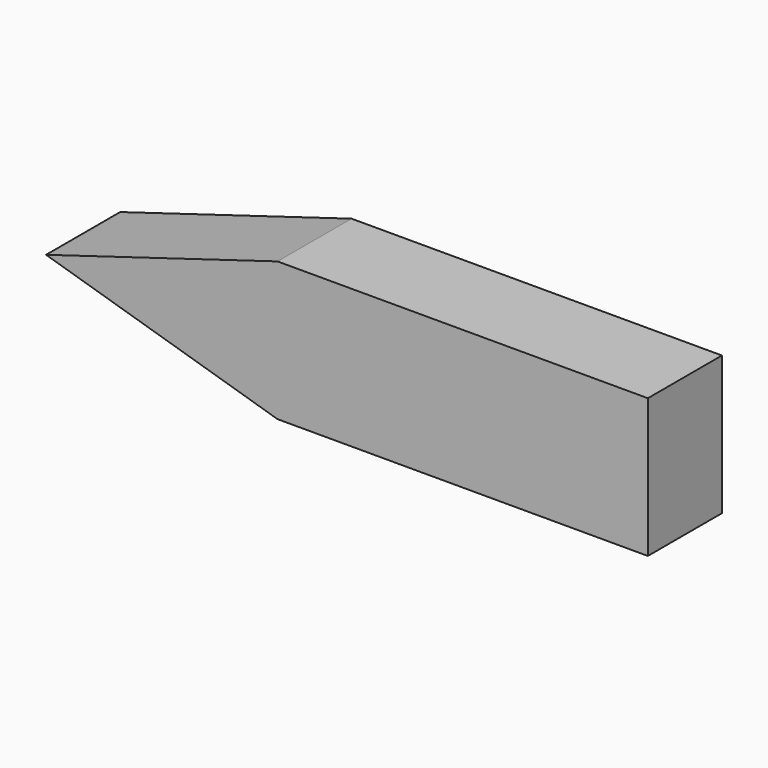
from build123d import *

# Parameters (mm, degrees)
PAD_DEPTH = 2


with BuildPart() as part:
    # Sketch → Pad (new body)
    with BuildSketch(Plane.XZ):
        Polygon((0, 1.5), (8, 1.5), (8, -1.5), (0, -1.5), (-5, 0), align=None)
    extrude(amount=PAD_DEPTH)


solid = part.part
